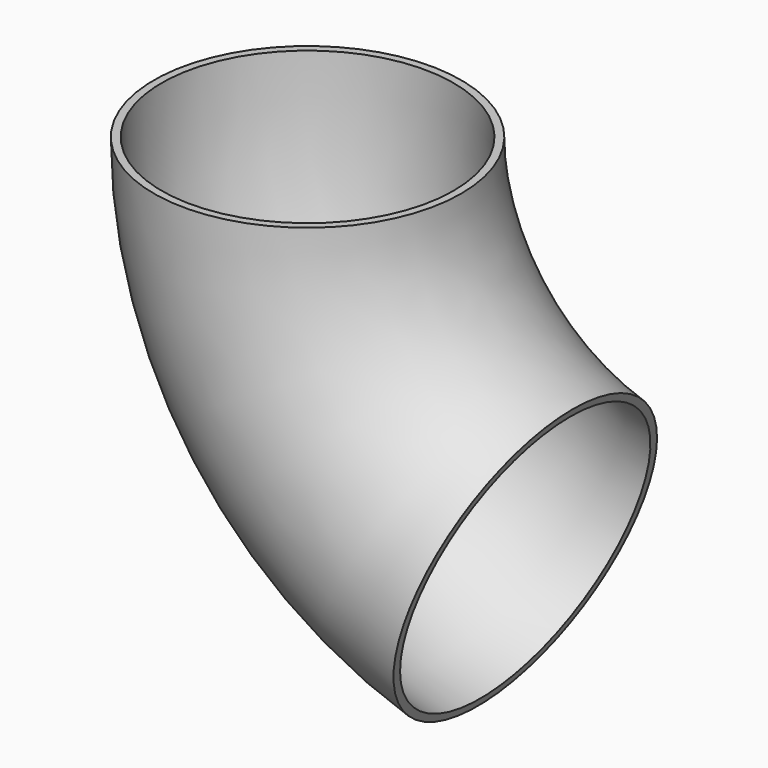
from build123d import *

# Parameters (mm, degrees)
F1_R     = 40
F1_R_2   = 38
F2_ANGLE = 72


with BuildPart() as f2:
    # F1 (on Top) → F2 (revolve)
    with BuildSketch(Plane.XY):
        with Locations((-82, 0)):
            Circle(F1_R)
        with Locations((-82, 0)):
            Circle(F1_R_2, mode=Mode.SUBTRACT)
    revolve(axis=Axis((0, -21.5753801167, 0), (0, -1, 0)), revolution_arc=F2_ANGLE)


solid = f2.part
